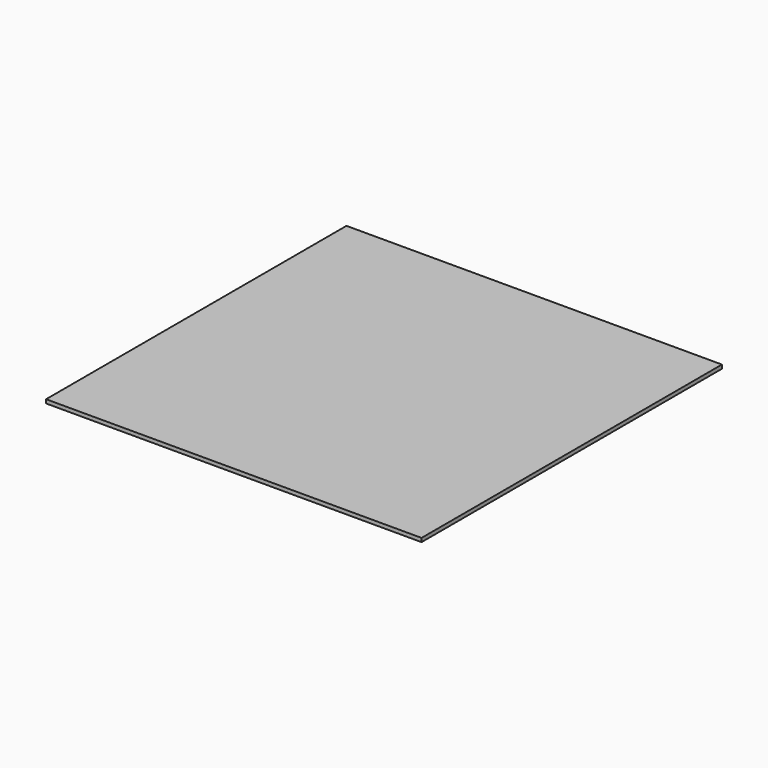
from build123d import *

# Parameters (mm, degrees)
SKETCH_W  = 400
SKETCH_H  = 400
PAD_DEPTH = 4


with BuildPart() as part:
    # Sketch → Pad (new body)
    with BuildSketch(Plane.XY):
        Rectangle(SKETCH_W, SKETCH_H)
    extrude(amount=PAD_DEPTH)


solid = part.part
